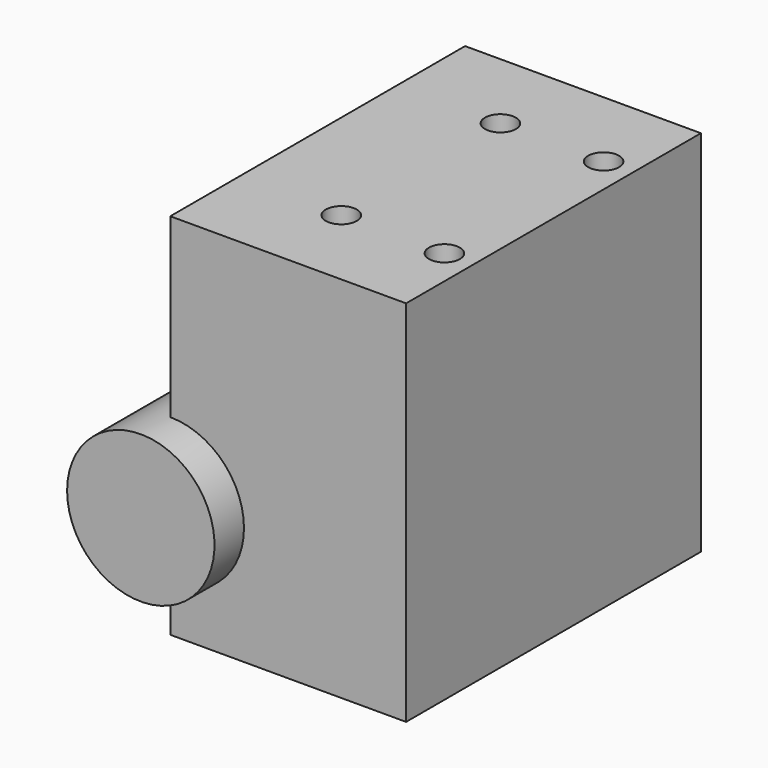
from build123d import *

# Parameters (mm, degrees)
SKETCH001_W       = 32
SKETCH001_H       = 50
PAD_DEPTH         = 50
SKETCH002_W       = 4
SKETCH002_H       = 5
PAD001_DEPTH      = 5
SKETCH003_R       = 2.1
POCKET_DEPTH      = 211.852784
SKETCH004_R       = 10
PAD002_DEPTH      = 5
PAD002_DEPTH_BACK = 55


with BuildPart() as part:
    # Sketch001 → Pad (new body)
    with BuildSketch(Plane.XY):
        Rectangle(SKETCH001_W, SKETCH001_H)
    extrude(amount=PAD_DEPTH)

    # Sketch002 → Pad001 (join)
    with BuildSketch(Plane.XY):
        with Locations((3, 13.5)):
            Rectangle(SKETCH002_W, SKETCH002_H)
        with Locations((3, -13.5)):
            Rectangle(SKETCH002_W, SKETCH002_H)
    extrude(amount=-PAD001_DEPTH)

    # Sketch003 → Pocket (cut, through all)
    with BuildSketch(Plane.XY):
        with Locations((-2, 13.5)):
            Circle(SKETCH003_R)
        with Locations((12, 13.5)):
            Circle(SKETCH003_R)
    pocket = extrude(amount=POCKET_DEPTH, mode=Mode.SUBTRACT)

    # Mirrored: Pocket across Sketch003 H_Axis
    add(pocket.mirror(Plane.ZX), mode=Mode.SUBTRACT)

    # Sketch004 (on DatumPlane) → Pad002 (join, two sides)
    with BuildSketch(Plane(origin=(0, 25, 0), x_dir=(-1, 0, 0), z_dir=(0, 1, 0))) as pad002_sk:
        with Locations((16, 16)):
            Circle(SKETCH004_R)
    extrude(amount=PAD002_DEPTH)
    extrude(pad002_sk.sketch, amount=-PAD002_DEPTH_BACK)


solid = part.part
